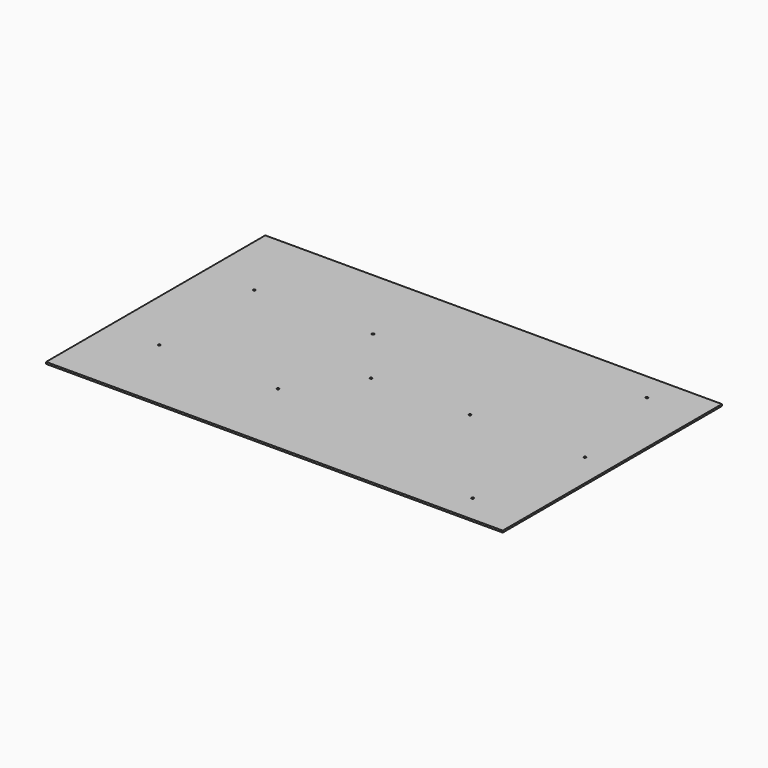
from build123d import *

# Parameters (mm, degrees)
F0_W     = 100
F0_H     = 60
F0_R     = 0.25
F1_DEPTH = 0.4


with BuildPart() as f1:
    # F0 (on Top) → F1 (new body)
    with BuildSketch(Plane.XY):
        with Locations((-17.849748, 0)):
            Rectangle(F0_W, F0_H)
        with Locations((-56.6505, -13)):
            Circle(F0_R, mode=Mode.SUBTRACT)
        with Locations((-30.6505, -13)):
            Circle(F0_R, mode=Mode.SUBTRACT)
        with Locations((20.650252, -23.845)):
            Circle(F0_R, mode=Mode.SUBTRACT)
        with Locations((-56.6505, 13)):
            Circle(F0_R, mode=Mode.SUBTRACT)
        with Locations((-20.6505, 0)):
            Circle(F0_R, mode=Mode.SUBTRACT)
        with Locations((-30.6505, 13)):
            Circle(F0_R, mode=Mode.SUBTRACT)
        with Locations((1, 0)):
            Circle(F0_R, mode=Mode.SUBTRACT)
        with Locations((26.150252, 0)):
            Circle(F0_R, mode=Mode.SUBTRACT)
        with Locations((20.650252, 23.845)):
            Circle(F0_R, mode=Mode.SUBTRACT)
    extrude(amount=F1_DEPTH)


solid = f1.part
